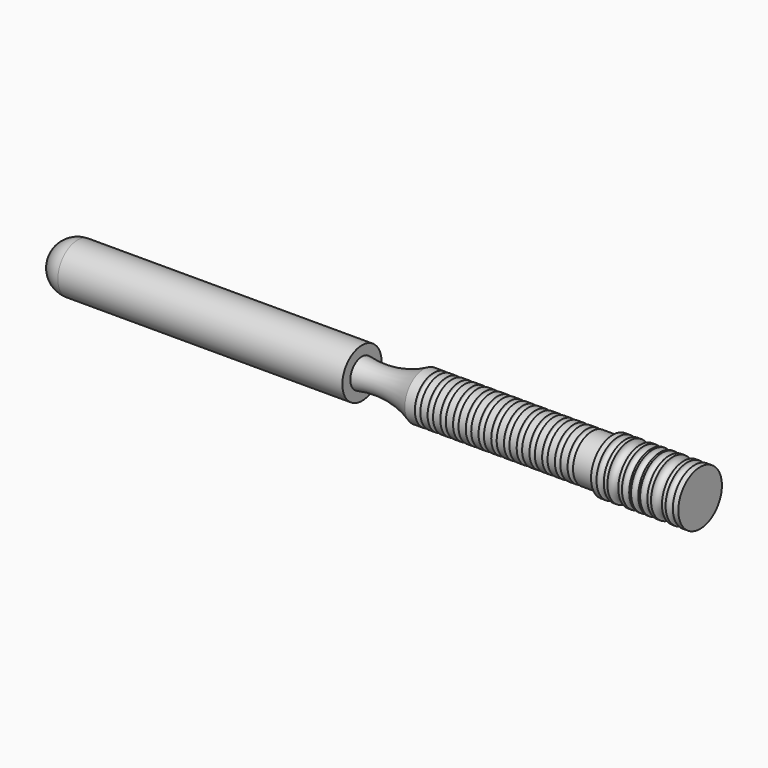
from build123d import *

# Parameters (mm, degrees)
F2_R     = 0.75
F2_R_2   = 1
F2_R_3   = 1.5
F5_D     = 5.5
F5_DEPTH = 13
F5_TIP   = 1.6523667023
F9_D     = 5.5
F9_DEPTH = 13
F9_TIP   = 1.6523667023


with BuildPart() as f1:
    # F0 (on Front) → F1 (revolve)
    with BuildSketch(Plane.XZ):
        with BuildLine():
            Line((93, 0), (0, 0))
            Line((0, 0), (0, -4))
            ThreePointArc((0, -4), (8.717561271, -3.7705833569), (17, -6.5))
            Line((17, -6.5), (69, -6.5))
            Line((69, -6.5), (69, -7.5))
            Line((69, -7.5), (93, -7.5))
            Line((93, -7.5), (93, 0))
        make_face()
    revolve(axis=Axis((46.5, 0, 0), (-1, 0, 0)))

    # F2 (on Front) → F3 (revolve, cut)
    with BuildSketch(Plane.XZ):
        with Locations((20.5, 6.5)):
            Circle(F2_R)
        with Locations((24, 6.5)):
            Circle(F2_R)
        with Locations((27.5, 6.5)):
            Circle(F2_R)
        with Locations((31, 6.5)):
            Circle(F2_R)
        with Locations((34.5, 6.5)):
            Circle(F2_R)
        with Locations((38, 6.5)):
            Circle(F2_R)
        with Locations((41.5, 6.5)):
            Circle(F2_R)
        with Locations((45, 6.5)):
            Circle(F2_R)
        with Locations((48.5, 6.5)):
            Circle(F2_R)
        with Locations((52, 6.5)):
            Circle(F2_R)
        with Locations((55.5, 6.5)):
            Circle(F2_R)
        with Locations((59, 6.5)):
            Circle(F2_R)
        with Locations((62.5, 6.5)):
            Circle(F2_R)
        with Locations((71.5, 7.5)):
            Circle(F2_R_2)
        with Locations((75, 7.5)):
            Circle(F2_R_3)
        with Locations((78.5, 7.5)):
            Circle(F2_R_2)
        with Locations((81, 7.5)):
            Circle(F2_R_2)
        with Locations((83.5, 7.5)):
            Circle(F2_R_2)
        with Locations((87, 7.5)):
            Circle(F2_R_3)
        with Locations((90.5, 7.5)):
            Circle(F2_R_2)
    revolve(axis=Axis((46.5, 0, 0), (-1, 0, 0)), mode=Mode.SUBTRACT)

    # F5
    with Locations(Plane(origin=(0, 0, 0), x_dir=(0, -1, 0), z_dir=(-1, 0, 0))):
        with Locations((0, 0)):
            Hole(F5_D / 2, depth=F5_DEPTH)
            with Locations((0, 0, -(F5_DEPTH + F5_TIP / 2))):  # 118° drill point
                Cone(0, F5_D / 2, F5_TIP, mode=Mode.SUBTRACT)


with BuildPart() as f7:
    # F6 (on Front) → F7 (revolve)
    with BuildSketch(Plane.XZ):
        with BuildLine():
            Line((-85, 0), (0, 0))
            Line((0, 0), (0, 6.75))
            Line((0, 6.75), (-78.25, 6.75))
            ThreePointArc((-78.25, 6.75), (-83.022970773, 4.772970773), (-85, 0))
        make_face()
    revolve(axis=Axis((-42.5, 0, 0), (1, 0, 0)))

    # F9
    with Locations(Plane.YZ):
        with Locations((0, 0)):
            Hole(F9_D / 2, depth=F9_DEPTH)
            with Locations((0, 0, -(F9_DEPTH + F9_TIP / 2))):  # 118° drill point
                Cone(0, F9_D / 2, F9_TIP, mode=Mode.SUBTRACT)


solid = Compound([f1.part, f7.part])
